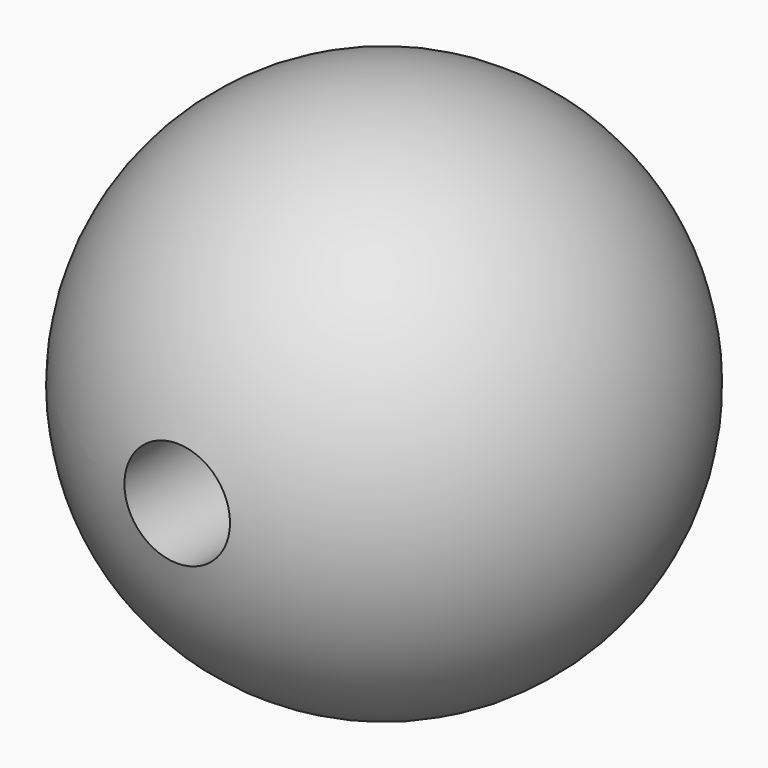
from build123d import *

# Parameters (mm, degrees)
F4_R     = 3.175
F5_DEPTH = 25.4


with BuildPart() as f2:
    # F1 (on Top) → F2 (revolve)
    with BuildSketch(Plane.XY):
        with BuildLine():
            Line((0, -15.875), (0, 15.875))
            ThreePointArc((0, 15.875), (-15.875, 0), (0, -15.875))
        make_face()
    revolve(axis=Axis((0, 0, 0), (0, -1, 0)))


with BuildPart() as f5:
    # F4 (on offset) → F5 (new body)
    with BuildSketch(Plane.XZ.offset(6.35)):
        Circle(F4_R)
    extrude(amount=F5_DEPTH)


with BuildPart() as f2_1:
    add(f2.part)

    # F6: cut F5
    add(f5.part, mode=Mode.SUBTRACT)


solid = f2_1.part
